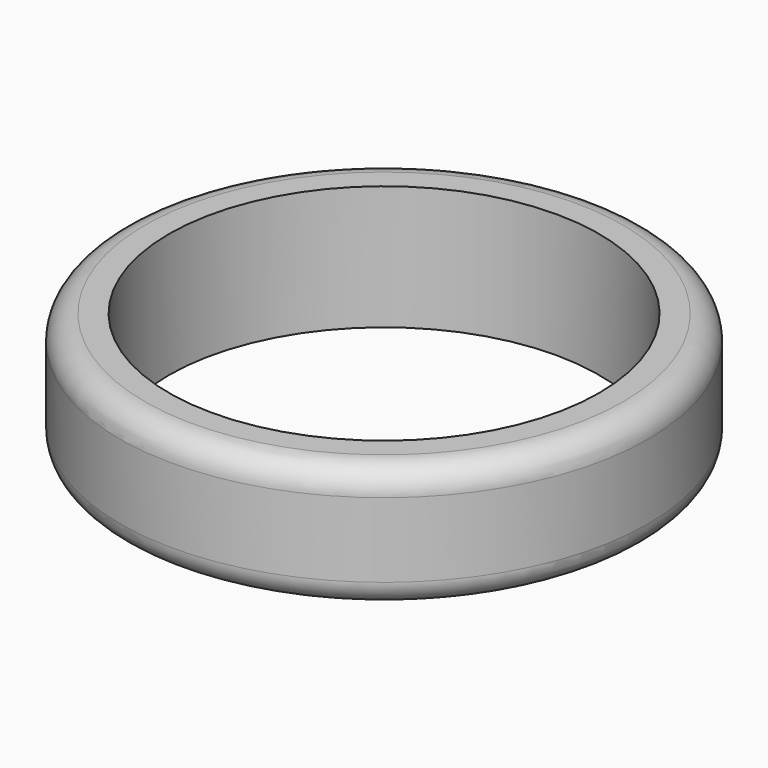
from build123d import *

# Parameters (mm, degrees)
F0_R     = 13.49375
F0_R_2   = 11
F1_DEPTH = 6.35
F2_R     = 1.27
F3_R     = 1.27


with BuildPart() as f1:
    # F0 (on Top) → F1 (new body)
    with BuildSketch(Plane.XY):
        Circle(F0_R)
        Circle(F0_R_2, mode=Mode.SUBTRACT)
    extrude(amount=F1_DEPTH)

    # F2
    f2_edges = [f1.edges().sort_by_distance(p)[0] for p in [
        (-13.49375, 0, 0),
    ]]
    fillet(f2_edges, radius=F2_R)

    # F3
    f3_edges = [f1.edges().sort_by_distance(p)[0] for p in [
        (-13.49375, 0, 6.35),
    ]]
    fillet(f3_edges, radius=F3_R)


solid = f1.part
